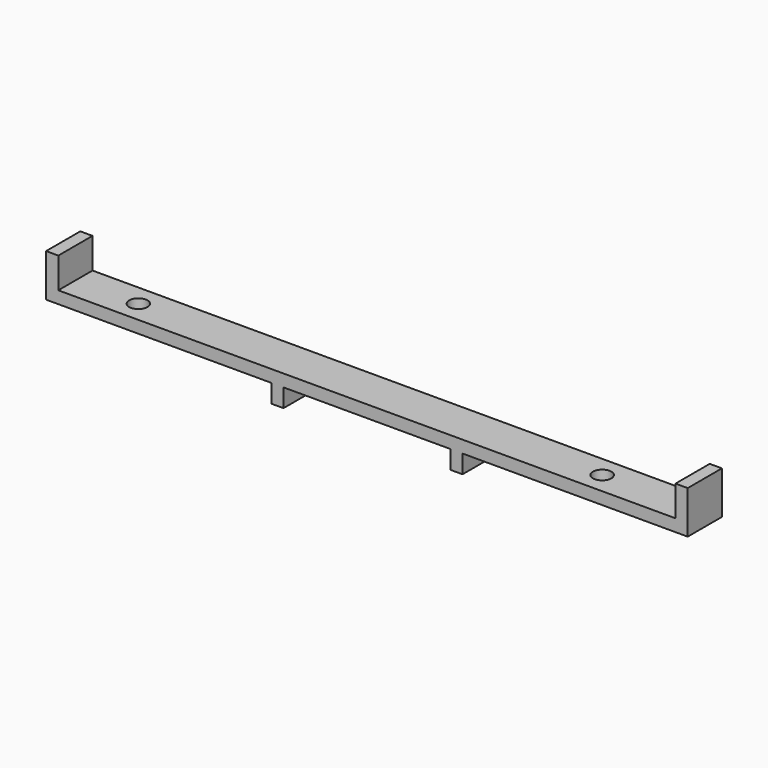
from build123d import *

# Parameters (mm, degrees)
F1_DEPTH = 7
F2_R     = 1.5
F3_DEPTH = 5.001


with BuildPart() as f1:
    # F0 (on Front) → F1 (new body)
    with BuildSketch(Plane.XZ):
        Polygon((50.5, 8.5), (50.5, 3.5), (-50.5, 3.5), (-50.5, 8.5), (-52.5, 8.5), (-52.5, 1.5), (-50.5, 1.5), (-15.65, 1.5), (-15.65, -1.5), (-13.65, -1.5), (-13.65, 1.5), (13.65, 1.5), (13.65, -1.5), (15.65, -1.5), (15.65, 1.5), (50.5, 1.5), (52.5, 1.5), (52.5, 8.5), align=None)
    extrude(amount=F1_DEPTH)

    # F2 (on face) → F3 (cut, through all)
    with BuildSketch(Plane.XY.offset(3.5)):
        with Locations((-40.2, -3.5)):
            Circle(F2_R)
        with Locations((35.7, -3.5)):
            Circle(F2_R)
    extrude(amount=-F3_DEPTH, mode=Mode.SUBTRACT)


solid = f1.part
